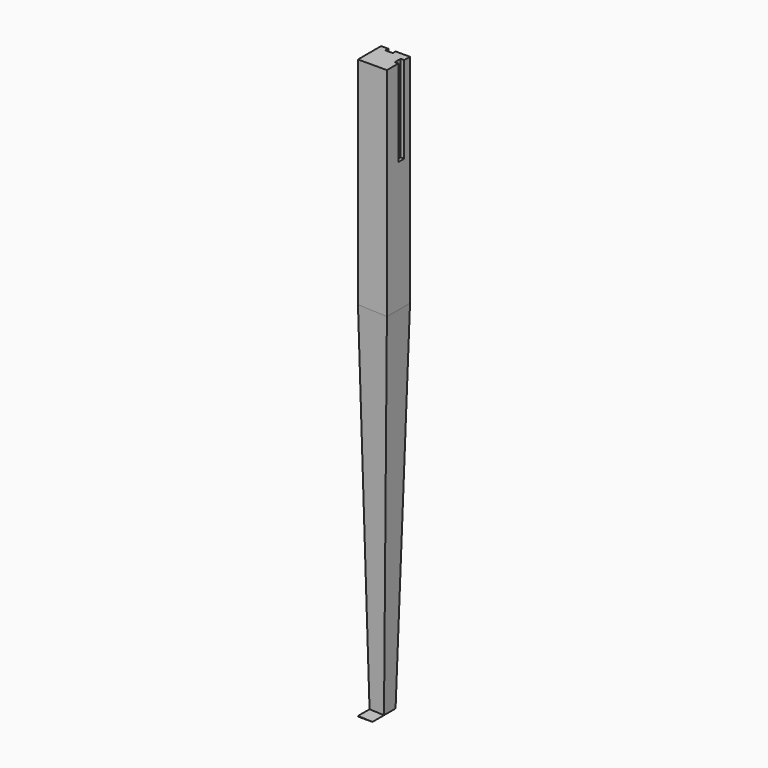
from build123d import *

# Parameters (mm, degrees)
F1_DEPTH = 50.8
F2_W     = 12.7
F2_H     = 152.4
F3_DEPTH = 6.35
F5_DEPTH = 65.988231
F6_W     = 12.7
F6_H     = 152.4
F7_DEPTH = 6.35


with BuildPart() as f1:
    # F0 (on Front) → F1 (new body)
    with BuildSketch(Plane.XZ):
        Polygon((0, 0), (0, -1016), (25.4, -1016), (50.8, -381), (50.8, 0), align=None)
    extrude(amount=-F1_DEPTH)

    # F2 (on face) → F3 (cut)
    with BuildSketch(Plane.YZ.offset(50.8)):
        with Locations((31.75, -76.2)):
            Rectangle(F2_W, F2_H)
    extrude(amount=-F3_DEPTH, mode=Mode.SUBTRACT)

    # F4 (on face) → F5 (cut, through all)
    with BuildSketch(Plane(origin=(65.934505, 0, -2.63738), x_dir=(0, 1, 0), z_dir=(0.999201, 0, -0.039968))):
        Polygon((25.4, -1014.172986), (0, -378.665189), (0, -1014.172986), align=None)
    extrude(amount=-F5_DEPTH, mode=Mode.SUBTRACT)

    # F6 (on face) → F7 (cut)
    with BuildSketch(Plane(origin=(0, 50.8, 0), x_dir=(-1, 0, 0), z_dir=(0, 1, 0))):
        with Locations((-19.05, -76.2)):
            Rectangle(F6_W, F6_H)
    extrude(amount=-F7_DEPTH, mode=Mode.SUBTRACT)


solid = f1.part
